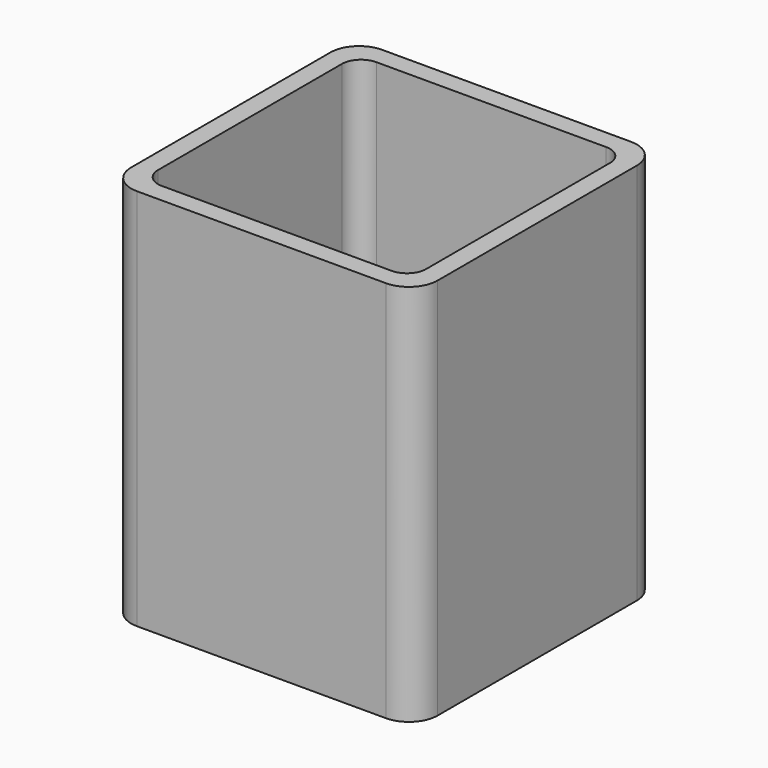
from build123d import *

# Parameters (mm, degrees)
EXTRUDE_DEPTH = 50


with BuildPart() as part:
    # Sketch → Extrude (new body)
    with BuildSketch(Plane.XY):
        with BuildLine():
            Line((-16.25, 20), (16.25, 20))
            ThreePointArc((20, 16.25), (18.90165, 18.90165), (16.25, 20))
            Line((20, 16.25), (20, -16.25))
            ThreePointArc((16.25, -20), (18.90165, -18.90165), (20, -16.25))
            Line((16.25, -20), (-16.25, -20))
            ThreePointArc((-20, -16.25), (-18.90165, -18.90165), (-16.25, -20))
            Line((-20, -16.25), (-20, 16.25))
            ThreePointArc((-16.25, 20), (-18.90165, 18.90165), (-20, 16.25))
        make_face()
        with BuildLine():
            Line((-15, 17.5), (15, 17.5))
            ThreePointArc((17.5, 15), (16.767767, 16.767767), (15, 17.5))
            Line((17.5, 15), (17.5, -15))
            ThreePointArc((15, -17.5), (16.767767, -16.767767), (17.5, -15))
            Line((15, -17.5), (-15, -17.5))
            ThreePointArc((-17.5, -15), (-16.767767, -16.767767), (-15, -17.5))
            Line((-17.5, -15), (-17.5, 15))
            ThreePointArc((-15, 17.5), (-16.767767, 16.767767), (-17.5, 15))
        make_face(mode=Mode.SUBTRACT)
    extrude(amount=EXTRUDE_DEPTH)


solid = part.part
